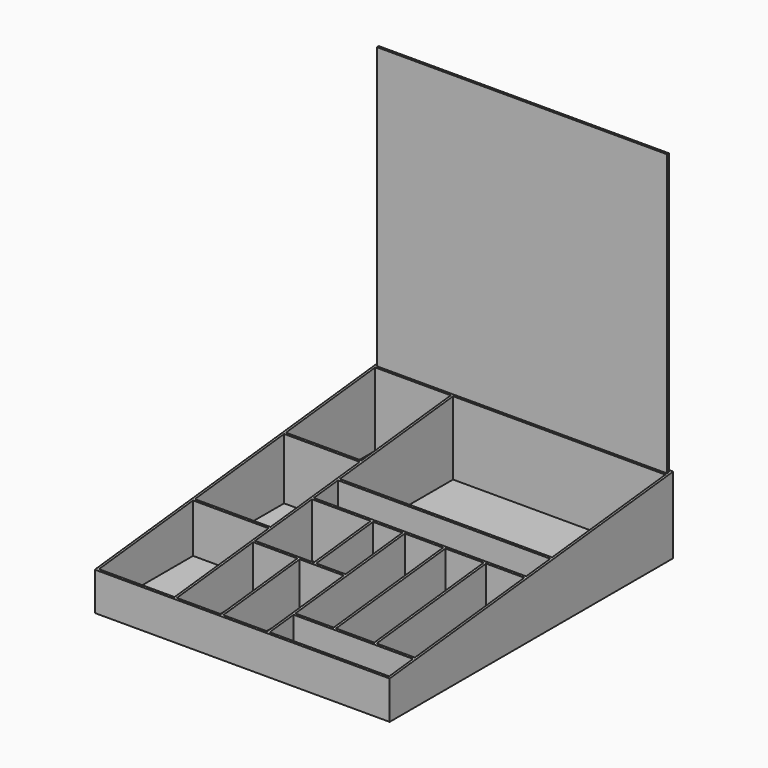
from build123d import *

# Parameters (mm, degrees)
PAD_DEPTH     = 193
SKETCH001_W   = 99
SKETCH001_H   = 146
SKETCH001_H_2 = 154
SKETCH001_W_2 = 380
SKETCH001_H_3 = 3
SKETCH001_W_3 = 278
SKETCH001_H_4 = 185.4
SKETCH001_H_5 = 39.5
SKETCH001_W_4 = 77
SKETCH001_H_6 = 93.1
SKETCH001_W_5 = 38.5
SKETCH001_W_6 = 57.75
SKETCH001_H_7 = 125
SKETCH001_W_7 = 50.17
SKETCH001_H_8 = 179
SKETCH001_W_8 = 156.5
SKETCH001_H_9 = 39.1
POCKET_DEPTH  = 100
SKETCH002_W   = 380
SKETCH002_H   = 3
PAD001_DEPTH  = 464


with BuildPart() as obj1:
    # Sketch → Pad (new body, symmetric)
    with BuildSketch(Plane.YZ):
        Polygon((-232, 47), (-232, -3), (232, -3), (232, 97), align=None)
    extrude(amount=PAD_DEPTH, both=True)

    # Sketch001 → Pocket (cut)
    with BuildSketch(Plane.XY):
        with Locations((-140.5, 150)):
            Rectangle(SKETCH001_W, SKETCH001_H)
        with Locations((-140.5, 1)):
            Rectangle(SKETCH001_W, SKETCH001_H)
        with Locations((-140.5, -152)):
            Rectangle(SKETCH001_W, SKETCH001_H_2)
        with Locations((0, 227.291516)):
            Rectangle(SKETCH001_W_2, SKETCH001_H_3)
        with Locations((51, 130.3)):
            Rectangle(SKETCH001_W_3, SKETCH001_H_4)
        with Locations((51, 14.85)):
            Rectangle(SKETCH001_W_3, SKETCH001_H_5)
        with Locations((-49.5, -54.45)):
            Rectangle(SKETCH001_W_4, SKETCH001_H_6)
        with Locations((11.25, -54.45)):
            Rectangle(SKETCH001_W_5, SKETCH001_H_6)
        with Locations((-59.125, -166.5)):
            Rectangle(SKETCH001_W_6, SKETCH001_H_7)
        with Locations((1.625, -166.5)):
            Rectangle(SKETCH001_W_6, SKETCH001_H_7)
        with Locations((58.585, -97.4)):
            Rectangle(SKETCH001_W_7, SKETCH001_H_8)
        with Locations((111.755, -97.4)):
            Rectangle(SKETCH001_W_7, SKETCH001_H_8)
        with Locations((164.925, -97.4)):
            Rectangle(SKETCH001_W_7, SKETCH001_H_8)
        with Locations((111.75, -209.45)):
            Rectangle(SKETCH001_W_8, SKETCH001_H_9)
    extrude(amount=POCKET_DEPTH, mode=Mode.SUBTRACT)


with BuildPart() as obj2:
    # Sketch002 → Pad001 (new body)
    with BuildSketch(Plane.XY):
        with Locations((0, 227.5)):
            Rectangle(SKETCH002_W, SKETCH002_H)
    extrude(amount=PAD001_DEPTH)


solid = Compound([obj1.part, obj2.part])
